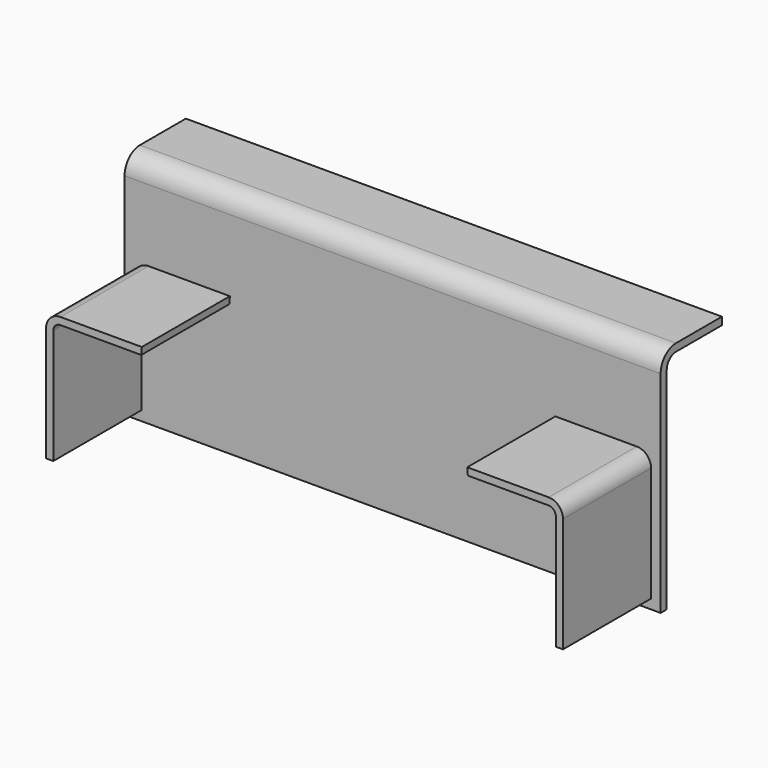
from build123d import *

# Parameters (mm, degrees)
F1_DEPTH = 177.8
F3_DEPTH = 73.025


with BuildPart() as f1:
    # F0 (on Right) → F1 (new body, symmetric)
    with BuildSketch(Plane.YZ):
        with BuildLine():
            Line((0, -12.7), (0, -152.4))
            Line((0, -152.4), (5.0270461919, -152.4))
            Line((5.0270461919, -152.4), (5.0270461919, -12.7))
            ThreePointArc((5.0270461919, -12.7), (7.2744023306, -7.2744023306), (12.7, -5.0270461919))
            Line((12.7, -5.0270461919), (50.8, -5.0270461919))
            Line((50.8, -5.0270461919), (50.8, 0))
            Line((50.8, 0), (12.7, 0))
            ThreePointArc((12.7, 0), (3.7197438789, -3.7197438789), (0, -12.7))
        make_face()
    extrude(amount=F1_DEPTH, both=True)

    # F2 (on face) → F3 (join)
    with BuildSketch(Plane.XZ):
        with BuildLine():
            Line((-108.298035616, -65.0875), (-107.95, -60.325))
            Line((-107.95, -60.325), (-161.925, -60.325))
            ThreePointArc((-161.925, -60.325), (-168.6601920908, -63.1148079092), (-171.45, -69.85))
            Line((-171.45, -69.85), (-171.45, -146.05))
            Line((-171.45, -146.05), (-166.6875, -146.05))
            Line((-166.6875, -146.05), (-166.6875, -69.85))
            ThreePointArc((-166.6875, -69.85), (-165.2925960454, -66.4824039546), (-161.925, -65.0875))
            Line((-161.925, -65.0875), (-108.298035616, -65.0875))
        make_face()
    extrude(amount=F3_DEPTH)

    # F4: F1 across plane


with BuildPart() as f1_1:
    add(f1.part)
    add(f1.part.mirror(Plane.YZ))


solid = f1_1.part
